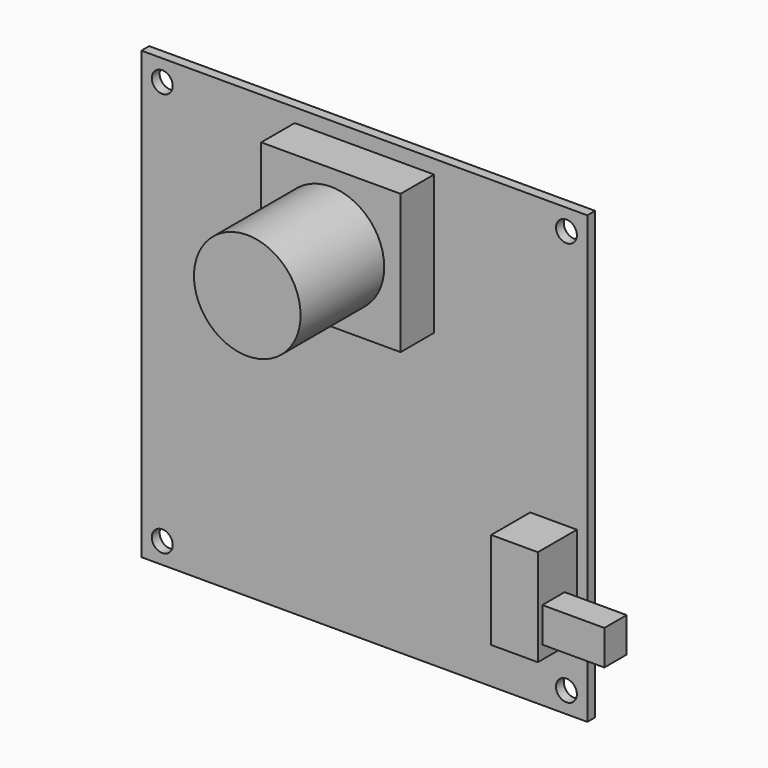
from build123d import *

# Parameters (mm, degrees)
F0_W     = 64
F0_H     = 64
F0_R     = 1.5
F1_DEPTH = 1.4
F2_W     = 20
F2_H     = 20
F2_R     = 7.65
F3_DEPTH = 6
F4_DEPTH = 21
F2_W_2   = 6.7
F2_H_2   = 13.9
F5_DEPTH = 7
F6_W     = 4
F6_H     = 5
F7_DEPTH = 8.9


with BuildPart() as f1:
    # F0 (on Front) → F1 (new body)
    with BuildSketch(Plane.XZ):
        Rectangle(F0_W, F0_H)
        with Locations((-29, -29)):
            Circle(F0_R, mode=Mode.SUBTRACT)
        with Locations((29, -29)):
            Circle(F0_R, mode=Mode.SUBTRACT)
        with Locations((-29, 29)):
            Circle(F0_R, mode=Mode.SUBTRACT)
        with Locations((29, 29)):
            Circle(F0_R, mode=Mode.SUBTRACT)
    extrude(amount=F1_DEPTH)

    # F2 (on face) → F3 (join)
    with BuildSketch(Plane.XZ.offset(1.4)):
        with Locations((0, 20)):
            Rectangle(F2_W, F2_H)
        with Locations((0, 20)):
            Circle(F2_R, mode=Mode.SUBTRACT)
    extrude(amount=F3_DEPTH)

    # F4 (add): a face of the model
    f4_faces = [f1.faces().sort_by_distance(p)[0] for p in [
        (0, -1.4, 20),
    ]]
    extrude(f4_faces, amount=F4_DEPTH)

    # F2 (on face) → F5 (join)
    with BuildSketch(Plane.XZ.offset(1.4)):
        with Locations((27.15, -15.15)):
            Rectangle(F2_W_2, F2_H_2)
    extrude(amount=F5_DEPTH)

    # F6 (on face) → F7 (join)
    with BuildSketch(Plane.YZ.offset(30.5)):
        with Locations((-5.6, -17.7)):
            Rectangle(F6_W, F6_H)
    extrude(amount=F7_DEPTH)


solid = f1.part
